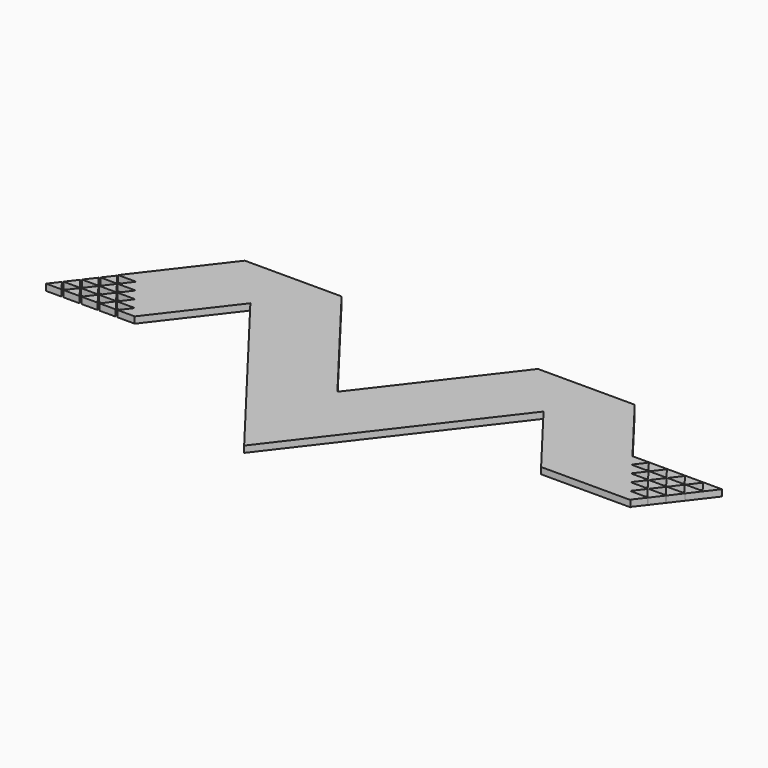
from build123d import *

# Parameters (mm, degrees)
F1_DEPTH = 1
F3_DEPTH = 25
F4_DEPTH = 1
F5_DEPTH = 25


with BuildPart() as f1:
    # F0 (on Top) → F1 (new body)
    with BuildSketch(Plane.XY):
        Polygon((15.2190357252, 19.8338335073), (0, 0), (-15.2190357252, 19.8338335073), (-30.2190357252, 19.8338335073), (-45.4380714504, 0), (-31.5728748963, 0), (-22.7190357252, 11.5385478548), (0, -18.0694759488), (22.7190357252, 11.5385478548), (31.5728748963, 0), (45.4380714504, 0), (30.2190357252, 19.8338335073), align=None)
    extrude(amount=F1_DEPTH)

    # F2 (on face) → F3 (cut)
    with BuildSketch(Plane.XY.offset(1)):
        Polygon((-38.5148041492, 1.724515522), (-41.1613387516, 1.724515522), (-39.9148041492, 0.1), (-39.7613387516, 0.1), align=None)
        Polygon((-41.112024209, 5.4735465659), (-41.1750478297, 5.3914125843), (-39.8380714504, 3.649031044), (-38.5010950711, 5.3914125843), (-38.5641186918, 5.4735465659), align=None)
        Polygon((-39.712024209, 7.2980620879), (-39.7750478297, 7.2159281063), (-38.5148041492, 5.5735465659), (-38.4380714504, 5.5735465659), (-38.3613387516, 5.5735465659), (-37.1010950711, 7.2159281063), (-37.1641186918, 7.2980620879), align=None)
        Polygon((-35.7641186918, 5.4735465659), (-38.4380714504, 5.4735465659), (-37.0380714504, 3.649031044), (-35.7010950711, 5.3914125843), align=None)
        Polygon((-41.3148041492, 1.724515522), (-43.9613387516, 1.724515522), (-42.7148041492, 0.1), (-42.5613387516, 0.1), align=None)
        Polygon((-39.9148041492, 3.549031044), (-42.5613387516, 3.549031044), (-41.2380714504, 1.824515522), align=None)
        Polygon((-37.1148041492, 3.549031044), (-39.7613387516, 3.549031044), (-38.4380714504, 1.824515522), align=None)
        Polygon((-35.7148041492, 1.724515522), (-38.3613387516, 1.724515522), (-37.1148041492, 0.1), (-36.9613387516, 0.1), align=None)
        Polygon((-34.3148041492, 3.549031044), (-36.9613387516, 3.549031044), (-35.6380714504, 1.824515522), align=None)
        Polygon((-34.1613387516, 0.1), (-32.9148041492, 1.724515522), (-35.5613387516, 1.724515522), (-34.3148041492, 0.1), align=None)
    extrude(amount=-F3_DEPTH, mode=Mode.SUBTRACT)

    # F2 (on face) → F4 (join)
    with BuildSketch(Plane.XY.offset(1)):
        Polygon((46.5772207631, 1.824515522), (44.0380714504, 1.824515522), (45.3706697275, 0.0878396355), (46.6402443838, 1.7423815404), align=None)
        Polygon((45.1772207631, 3.649031044), (42.6380714504, 3.649031044), (43.9706697275, 1.9123551575), (45.2402443838, 3.5668970624), align=None)
        Polygon((43.7772207631, 5.4735465659), (41.2380714504, 5.4735465659), (42.5706697275, 3.7368706795), (43.8402443838, 5.3914125843), align=None)
        Polygon((42.3772207631, 7.2980620879), (39.8380714504, 7.2980620879), (41.1706697275, 5.5613862014), (42.4402443838, 7.2159281063), align=None)
        Polygon((41.1032680045, 9.1225776099), (38.4380714504, 9.1225776099), (39.7706697275, 7.3859017234), (41.0402443838, 9.0404436283), align=None)
        Polygon((43.9032680045, 9.1225776099), (41.1032680045, 9.1225776099), (42.5032680045, 7.2980620879), (43.8402443838, 9.0404436283), align=None)
        Polygon((45.1772207631, 7.2980620879), (42.5032680045, 7.2980620879), (43.9032680045, 5.4735465659), (45.2402443838, 7.2159281063), align=None)
        Polygon((46.7032680045, 9.1225776099), (43.9032680045, 9.1225776099), (45.3032680045, 7.2980620879), (46.6402443838, 9.0404436283), align=None)
        Polygon((49.5032680045, 9.1225776099), (46.7032680045, 9.1225776099), (48.1032680045, 7.2980620879), (49.4402443838, 9.0404436283), align=None)
        Polygon((52.3032680045, 9.1225776099), (49.5032680045, 9.1225776099), (50.9032680045, 7.2980620879), align=None)
        Polygon((50.7772207631, 7.2980620879), (48.1032680045, 7.2980620879), (49.5032680045, 5.4735465659), (50.9032680045, 7.2980620879), align=None)
        Polygon((49.3772207631, 5.4735465659), (46.7032680045, 5.4735465659), (48.1032680045, 3.649031044), (49.5032680045, 5.4735465659), align=None)
        Polygon((47.9772207631, 7.2980620879), (45.3032680045, 7.2980620879), (46.7032680045, 5.4735465659), (48.0402443838, 7.2159281063), align=None)
        Polygon((46.5772207631, 5.4735465659), (43.9032680045, 5.4735465659), (45.3032680045, 3.649031044), (46.6402443838, 5.3914125843), align=None)
        Polygon((47.9772207631, 3.649031044), (45.3032680045, 3.649031044), (46.7032680045, 1.824515522), (48.0402443838, 3.5668970624), align=None)
        Polygon((46.7032680045, 1.824515522), (45.3032680045, 3.649031044), (45.2402443838, 3.5668970624), (46.5772207631, 1.824515522), align=None)
        Polygon((45.2402443838, 3.5668970624), (45.3032680045, 3.649031044), (45.1772207631, 3.649031044), align=None)
        Polygon((45.3032680045, 3.649031044), (43.9032680045, 5.4735465659), (43.8402443838, 5.3914125843), (45.1772207631, 3.649031044), align=None)
        Polygon((46.6402443838, 1.7423815404), (46.7032680045, 1.824515522), (46.5772207631, 1.824515522), align=None)
        Polygon((43.9032680045, 5.4735465659), (42.5032680045, 7.2980620879), (42.4402443838, 7.2159281063), (43.7772207631, 5.4735465659), align=None)
        Polygon((43.8402443838, 5.3914125843), (43.9032680045, 5.4735465659), (43.7772207631, 5.4735465659), align=None)
        Polygon((48.1032680045, 3.649031044), (46.7032680045, 5.4735465659), (46.6402443838, 5.3914125843), (47.9772207631, 3.649031044), align=None)
        Polygon((46.7032680045, 5.4735465659), (46.5772207631, 5.4735465659), (46.6402443838, 5.3914125843), align=None)
        Polygon((46.7032680045, 5.4735465659), (45.3032680045, 7.2980620879), (45.2402443838, 7.2159281063), (46.5772207631, 5.4735465659), align=None)
        Polygon((48.1032680045, 3.649031044), (47.9772207631, 3.649031044), (48.0402443838, 3.5668970624), align=None)
        Polygon((49.5032680045, 5.4735465659), (48.1032680045, 7.2980620879), (48.0402443838, 7.2159281063), (49.3772207631, 5.4735465659), align=None)
        Polygon((42.5032680045, 7.2980620879), (41.1032680045, 9.1225776099), (41.0402443838, 9.0404436283), (42.3772207631, 7.2980620879), align=None)
        Polygon((42.4402443838, 7.2159281063), (42.5032680045, 7.2980620879), (42.3772207631, 7.2980620879), align=None)
        Polygon((45.3032680045, 7.2980620879), (43.9032680045, 9.1225776099), (43.8402443838, 9.0404436283), (45.1772207631, 7.2980620879), align=None)
        Polygon((45.3032680045, 7.2980620879), (45.1772207631, 7.2980620879), (45.2402443838, 7.2159281063), align=None)
        Polygon((48.1032680045, 7.2980620879), (46.7032680045, 9.1225776099), (46.6402443838, 9.0404436283), (47.9772207631, 7.2980620879), align=None)
        Polygon((48.1032680045, 7.2980620879), (47.9772207631, 7.2980620879), (48.0402443838, 7.2159281063), align=None)
        Polygon((50.9032680045, 7.2980620879), (49.5032680045, 9.1225776099), (49.4402443838, 9.0404436283), (50.7772207631, 7.2980620879), align=None)
    extrude(amount=-F4_DEPTH)

    # F2 (on face) → F5 (cut)
    with BuildSketch(Plane.XY.offset(1)):
        Polygon((-44.0380714504, 1.6602475588), (-44.1010950711, 1.7423815404), (-45.4380714504, 0), (-42.7641186918, 0), (-42.8408513906, 0.1), (-45.2352915102, 0.1), align=None)
        Polygon((-43.9750478297, 1.7423815404), (-44.0380714504, 1.824515522), (-44.1010950711, 1.7423815404), (-44.0380714504, 1.6602475588), (-43.9887569078, 1.724515522), align=None)
        Polygon((-43.912024209, 1.824515522), (-44.0380714504, 1.824515522), (-43.9750478297, 1.7423815404), align=None)
        Polygon((-42.6380714504, 3.4847630808), (-42.7010950711, 3.5668970624), (-44.0380714504, 1.824515522), (-43.912024209, 1.824515522), align=None)
        Polygon((-42.8408513906, 0.1), (-42.7641186918, 0), (-42.6380714504, 0), (-42.7148041492, 0.1), align=None)
        Polygon((-42.5613387516, 0.1), (-42.7148041492, 0.1), (-42.6380714504, 0), align=None)
        Polygon((-42.5613387516, 0.1), (-42.6380714504, 0), (-39.9641186918, 0), (-40.0408513906, 0.1), align=None)
        Polygon((-39.8380714504, 0), (-39.9148041492, 0.1), (-40.0408513906, 0.1), (-39.9641186918, 0), align=None)
        Polygon((-39.7613387516, 0.1), (-39.9148041492, 0.1), (-39.8380714504, 0), align=None)
        Polygon((-37.1641186918, 0), (-37.2408513906, 0.1), (-39.7613387516, 0.1), (-39.8380714504, 0), align=None)
        Polygon((-42.5750478297, 3.5668970624), (-42.6380714504, 3.649031044), (-42.7010950711, 3.5668970624), (-42.6380714504, 3.4847630808), (-42.5887569078, 3.549031044), align=None)
        Polygon((-42.512024209, 3.649031044), (-42.6380714504, 3.649031044), (-42.5750478297, 3.5668970624), align=None)
        Polygon((-41.2380714504, 5.3092786028), (-41.3010950711, 5.3914125843), (-42.6380714504, 3.649031044), (-42.512024209, 3.649031044), align=None)
        Polygon((-41.1750478297, 5.3914125843), (-41.2380714504, 5.4735465659), (-41.3010950711, 5.3914125843), (-41.2380714504, 5.3092786028), align=None)
        Polygon((-41.112024209, 5.4735465659), (-41.2380714504, 5.4735465659), (-41.1750478297, 5.3914125843), align=None)
        Polygon((-41.0352915102, 5.5735465659), (-41.1613387516, 5.5735465659), (-41.2380714504, 5.4735465659), (-41.112024209, 5.4735465659), align=None)
        Polygon((-39.8380714504, 7.1337941247), (-39.9010950711, 7.2159281063), (-41.1613387516, 5.5735465659), (-41.0352915102, 5.5735465659), align=None)
        Polygon((-39.7750478297, 7.2159281063), (-39.8380714504, 7.2980620879), (-39.9010950711, 7.2159281063), (-39.8380714504, 7.1337941247), align=None)
        Polygon((-39.712024209, 7.2980620879), (-39.8380714504, 7.2980620879), (-39.7750478297, 7.2159281063), align=None)
        Polygon((-37.0380714504, 0), (-37.1148041492, 0.1), (-37.2408513906, 0.1), (-37.1641186918, 0), align=None)
        Polygon((-36.9613387516, 0.1), (-37.1148041492, 0.1), (-37.0380714504, 0), align=None)
        Polygon((-34.3641186918, 0), (-34.4408513906, 0.1), (-36.9613387516, 0.1), (-37.0380714504, 0), align=None)
        Polygon((-34.2380714504, 0), (-34.3148041492, 0.1), (-34.4408513906, 0.1), (-34.3641186918, 0), align=None)
        Polygon((-34.2380714504, 0), (-34.1613387516, 0.1), (-34.3148041492, 0.1), align=None)
        Polygon((-31.5684967941, 0.0057056539), (-31.6408513906, 0.1), (-34.1613387516, 0.1), (-34.2380714504, 0), (-31.5728748963, 0), align=None)
        Polygon((-43.912024209, 1.824515522), (-43.9750478297, 1.7423815404), (-43.9613387516, 1.724515522), (-41.3148041492, 1.724515522), (-41.3010950711, 1.7423815404), (-41.3641186918, 1.824515522), align=None)
        Polygon((-41.2380714504, 1.824515522), (-41.3641186918, 1.824515522), (-41.3010950711, 1.7423815404), align=None)
        Polygon((-41.1613387516, 1.724515522), (-41.2380714504, 1.824515522), (-41.3010950711, 1.7423815404), (-41.287385993, 1.724515522), (-41.2380714504, 1.724515522), align=None)
        Polygon((-38.5641186918, 1.824515522), (-41.2380714504, 1.824515522), (-41.1613387516, 1.724515522), (-38.5148041492, 1.724515522), (-38.5010950711, 1.7423815404), align=None)
        Polygon((-38.5010950711, 1.7423815404), (-38.4380714504, 1.824515522), (-38.5641186918, 1.824515522), align=None)
        Polygon((-38.3613387516, 1.724515522), (-38.4380714504, 1.824515522), (-38.5010950711, 1.7423815404), (-38.487385993, 1.724515522), (-38.4380714504, 1.724515522), align=None)
        Polygon((-35.7641186918, 1.824515522), (-38.4380714504, 1.824515522), (-38.3613387516, 1.724515522), (-35.7148041492, 1.724515522), (-35.7010950711, 1.7423815404), align=None)
        Polygon((-35.7010950711, 1.7423815404), (-35.6380714504, 1.824515522), (-35.7641186918, 1.824515522), align=None)
        Polygon((-35.5613387516, 1.724515522), (-35.6380714504, 1.824515522), (-35.7010950711, 1.7423815404), (-35.687385993, 1.724515522), align=None)
        Polygon((-32.9010950711, 1.7423815404), (-32.9641186918, 1.824515522), (-35.6380714504, 1.824515522), (-35.5613387516, 1.724515522), (-32.9148041492, 1.724515522), align=None)
        Polygon((-42.512024209, 3.649031044), (-42.5750478297, 3.5668970624), (-42.5613387516, 3.549031044), (-39.9148041492, 3.549031044), (-39.9010950711, 3.5668970624), (-39.9641186918, 3.649031044), align=None)
        Polygon((-39.9010950711, 3.5668970624), (-39.8380714504, 3.649031044), (-39.9641186918, 3.649031044), align=None)
        Polygon((-39.7613387516, 3.549031044), (-39.8380714504, 3.649031044), (-39.9010950711, 3.5668970624), (-39.887385993, 3.549031044), (-39.8380714504, 3.549031044), align=None)
        Polygon((-37.1641186918, 3.649031044), (-39.8380714504, 3.649031044), (-39.7613387516, 3.549031044), (-37.1148041492, 3.549031044), (-37.1010950711, 3.5668970624), align=None)
        Polygon((-37.1010950711, 3.5668970624), (-37.0380714504, 3.649031044), (-37.1641186918, 3.649031044), align=None)
        Polygon((-36.9613387516, 3.549031044), (-37.0380714504, 3.649031044), (-37.1010950711, 3.5668970624), (-37.087385993, 3.549031044), align=None)
        Polygon((-34.3641186918, 3.649031044), (-37.0380714504, 3.649031044), (-36.9613387516, 3.549031044), (-34.3148041492, 3.549031044), (-34.3010950711, 3.5668970624), align=None)
        Polygon((-38.4380714504, 5.4735465659), (-38.5148041492, 5.5735465659), (-38.6408513906, 5.5735465659), (-38.5641186918, 5.4735465659), align=None)
        Polygon((-38.4380714504, 5.5735465659), (-38.5148041492, 5.5735465659), (-38.4380714504, 5.4735465659), (-38.3613387516, 5.5735465659), align=None)
        Polygon((-38.5010950711, 5.3914125843), (-38.4380714504, 5.4735465659), (-38.5641186918, 5.4735465659), align=None)
        Polygon((-37.0380714504, 3.649031044), (-38.4380714504, 5.4735465659), (-38.5010950711, 5.3914125843), (-37.1641186918, 3.649031044), align=None)
        Polygon((-38.4380714504, 1.824515522), (-39.7613387516, 3.549031044), (-39.8380714504, 3.549031044), (-39.887385993, 3.549031044), (-38.5641186918, 1.824515522), align=None)
        Polygon((-39.8380714504, 3.649031044), (-41.1750478297, 5.3914125843), (-41.2380714504, 5.3092786028), (-39.9641186918, 3.649031044), align=None)
        Polygon((-37.1148041492, 0.1), (-38.3613387516, 1.724515522), (-38.4380714504, 1.724515522), (-38.487385993, 1.724515522), (-37.2408513906, 0.1), align=None)
        Polygon((-34.3148041492, 0.1), (-35.5613387516, 1.724515522), (-35.687385993, 1.724515522), (-34.4408513906, 0.1), align=None)
        Polygon((-35.6380714504, 1.824515522), (-36.9613387516, 3.549031044), (-37.087385993, 3.549031044), (-35.7641186918, 1.824515522), align=None)
        Polygon((-38.5148041492, 5.5735465659), (-39.7750478297, 7.2159281063), (-39.8380714504, 7.1337941247), (-38.6408513906, 5.5735465659), align=None)
        Polygon((-42.5613387516, 3.549031044), (-42.5750478297, 3.5668970624), (-42.5887569078, 3.549031044), align=None)
        Polygon((-42.5887569078, 3.549031044), (-42.6380714504, 3.4847630808), (-41.3641186918, 1.824515522), (-41.2380714504, 1.824515522), (-42.5613387516, 3.549031044), align=None)
        Polygon((-43.9613387516, 1.724515522), (-43.9750478297, 1.7423815404), (-43.9887569078, 1.724515522), align=None)
        Polygon((-43.9887569078, 1.724515522), (-44.0380714504, 1.6602475588), (-42.8408513906, 0.1), (-42.7148041492, 0.1), (-43.9613387516, 1.724515522), align=None)
        Polygon((-39.9148041492, 0.1), (-41.1613387516, 1.724515522), (-41.2380714504, 1.724515522), (-41.287385993, 1.724515522), (-40.0408513906, 0.1), align=None)
        Polygon((-31.5054731734, 0.0878396355), (-31.5148041492, 0.1), (-31.6408513906, 0.1), (-31.5684967941, 0.0057056539), align=None)
        Polygon((-31.4961421975, 0.1), (-31.5148041492, 0.1), (-31.5054731734, 0.0878396355), align=None)
    extrude(amount=-F5_DEPTH, mode=Mode.SUBTRACT)


solid = f1.part
